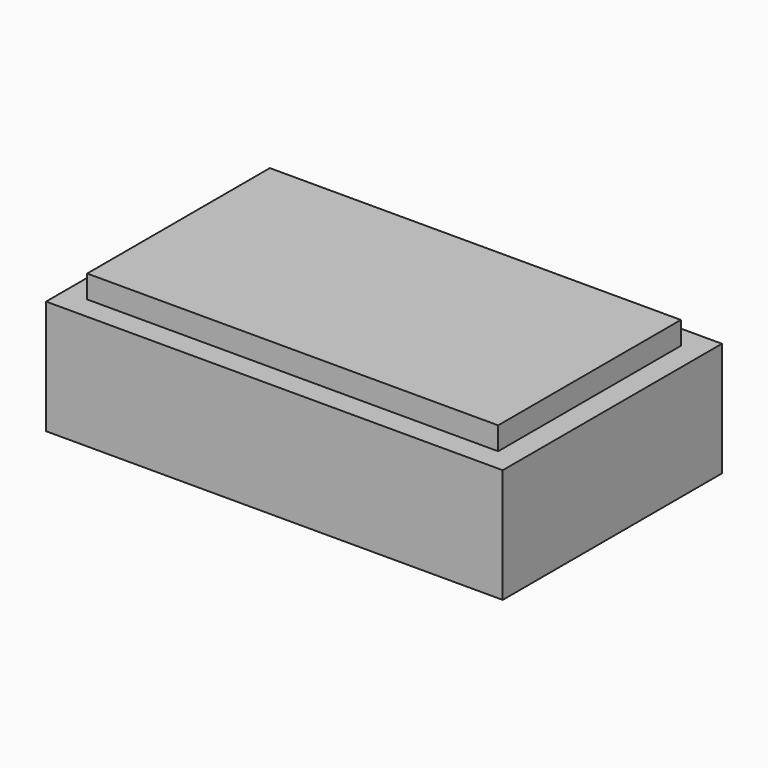
from build123d import *

# Parameters (mm, degrees)
SKETCH_W     = 2
SKETCH_H     = 1.2
PAD_DEPTH    = 0.5
SKETCH001_W  = 1.8
SKETCH001_H  = 1
PAD001_DEPTH = 0.1


with BuildPart() as pad:
    # Sketch → Pad (new body)
    with BuildSketch(Plane.XY):
        Rectangle(SKETCH_W, SKETCH_H)
    extrude(amount=PAD_DEPTH)


with BuildPart() as pad001:
    # Sketch001 → Pad001 (new body)
    with BuildSketch(Plane.XY.offset(0.5)):
        Rectangle(SKETCH001_W, SKETCH001_H)
    extrude(amount=PAD001_DEPTH)


solid = Compound([pad.part, pad001.part])
